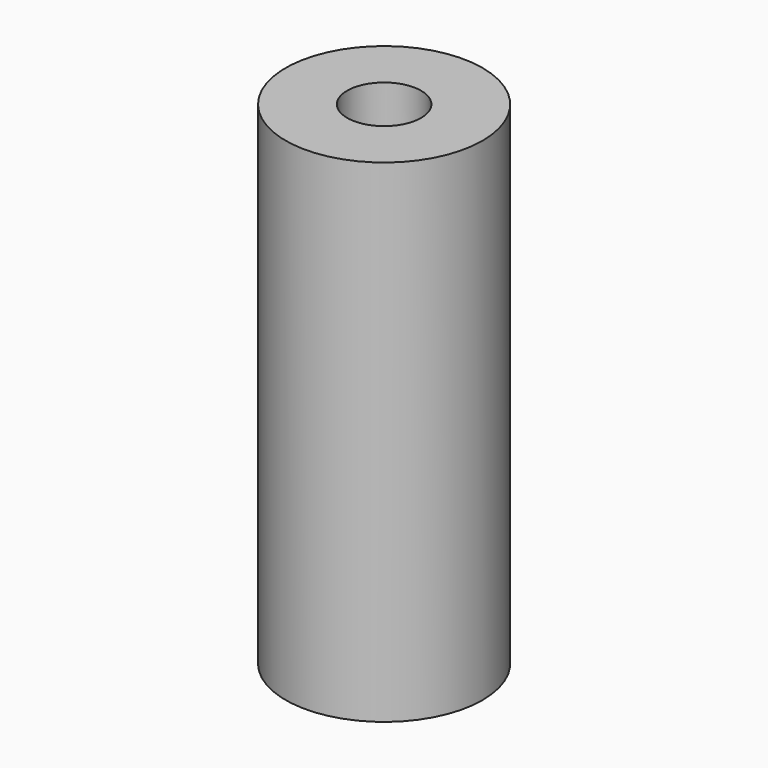
from build123d import *

# Parameters (mm, degrees)
F0_W     = 38.1
F0_H     = 254
F2_R     = 19.05
F2_R_2   = 12.7
F3_DEPTH = 38.1
F4_R     = 19.05
F5_DEPTH = 38.1


with BuildPart() as f1:
    # F0 (on Front) → F1 (revolve)
    with BuildSketch(Plane.XZ):
        with Locations((6.35, 0)):
            Rectangle(F0_W, F0_H)
    revolve(axis=Axis((-25.4, 0, 0), (0, 0, -1)))

    # F2 (on face) → F3 (cut)
    with BuildSketch(Plane(origin=(0, 0, -127), x_dir=(1, 0, 0), z_dir=(0, 0, -1))):
        with Locations((-25.4, 0)):
            Circle(F2_R)
        with Locations((-25.4, 0)):
            Circle(F2_R_2, mode=Mode.SUBTRACT)
    extrude(amount=-F3_DEPTH, mode=Mode.SUBTRACT)

    # F4 (on face) → F5 (cut)
    with BuildSketch(Plane.XY.offset(127)):
        with Locations((-25.4, 0)):
            Circle(F4_R)
    extrude(amount=-F5_DEPTH, mode=Mode.SUBTRACT)


solid = f1.part
